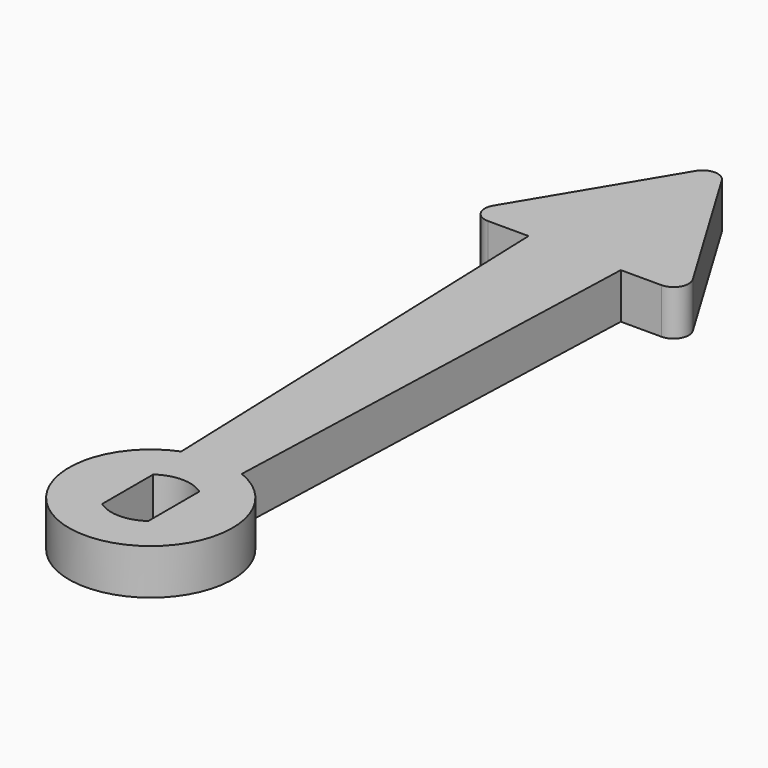
from build123d import *

# Parameters (mm, degrees)
F0_R     = 5.4
F1_DEPTH = 1.5
F3_DEPTH = 1.5
F5_DEPTH = 3
F6_R     = 1


with BuildPart() as f1:
    # F0 (on Top) → F1 (new body, symmetric)
    with BuildSketch(Plane.XY):
        Circle(F0_R)
        with BuildLine():
            ThreePointArc((1.525, 2.1057955741), (2.3157072354, 1.1821590418), (2.6, 0))
            ThreePointArc((2.6, 0), (2.3157072354, -1.1821590418), (1.525, -2.1057955741))
            ThreePointArc((1.525, -2.1057955741), (0, -2.6), (-1.525, -2.1057955741))
            ThreePointArc((-1.525, -2.1057955741), (-2.6, 0), (-1.525, 2.1057955741))
            ThreePointArc((-1.525, 2.1057955741), (0, 2.6), (1.525, 2.1057955741))
        make_face(mode=Mode.SUBTRACT)
        with BuildLine():
            Line((-1.525, -2.1057955741), (-1.525, 2.1057955741))
            ThreePointArc((-1.525, 2.1057955741), (-2.6, 0), (-1.525, -2.1057955741))
        make_face()
        with BuildLine():
            ThreePointArc((1.525, -2.1057955741), (2.3157072354, -1.1821590418), (2.6, 0))
            ThreePointArc((2.6, 0), (2.3157072354, 1.1821590418), (1.525, 2.1057955741))
            Line((1.525, 2.1057955741), (1.525, -2.1057955741))
        make_face()
    extrude(amount=F1_DEPTH, both=True)

    # F2 (on Top) → F3 (join, symmetric)
    with BuildSketch(Plane.XY):
        with BuildLine():
            Line((3.0470652436, 35), (0, 35))
            Line((0, 35), (-3.0470652436, 35))
            Line((-3.0470652436, 35), (-2, 5.0159744816))
            ThreePointArc((-2, 5.0159744816), (0, 5.4), (2, 5.0159744816))
            Line((2, 5.0159744816), (3.0470652436, 35))
        make_face()
    extrude(amount=F3_DEPTH, both=True)

    # F4 (on face) → F5 (join, through all)
    with BuildSketch(Plane.XY.offset(1.5)):
        Polygon((0, 47.5), (-7.5, 35), (7.5, 35), align=None)
    extrude(amount=-F5_DEPTH)

    # F6
    f6_edges = [f1.edges().sort_by_distance(p)[0] for p in [
        (-7.5, 35, 0),
        (7.5, 35, 0),
        (0, 47.5, 0),
    ]]
    fillet(f6_edges, radius=F6_R)


solid = f1.part
